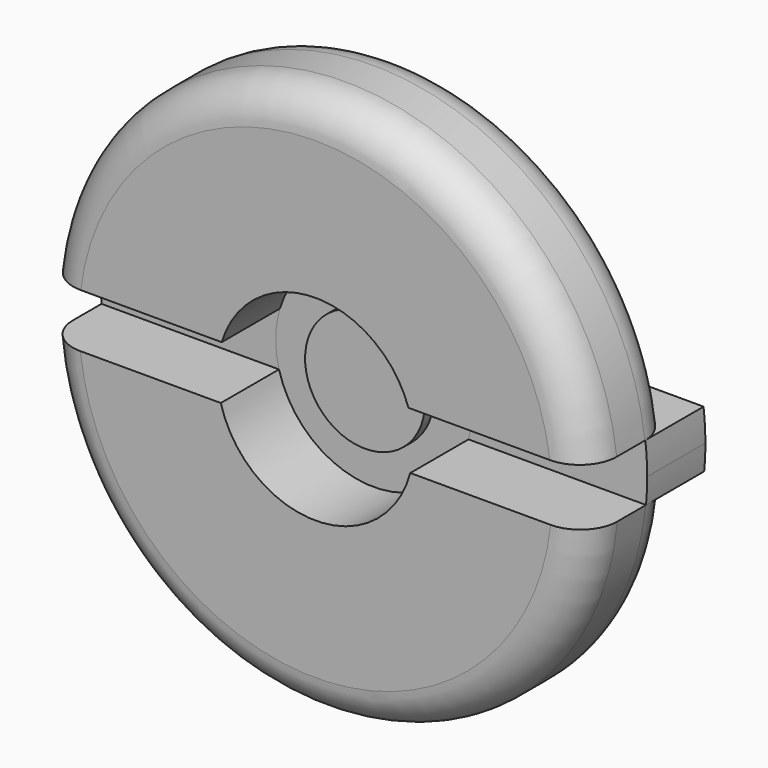
from build123d import *

# Parameters (mm, degrees)
F1_DEPTH = 15
F0_R     = 8.2416015479
F2_DEPTH = 5
F3_DEPTH = 6.5
F4_DEPTH = 5
F5_R     = 5.08
F5_2_R   = 5.08


with BuildPart() as f1:
    # F0 (on Front) → F1 (new body)
    with BuildSketch(Plane.XZ):
        with BuildLine():
            Line((37.4250772246, -3.4860127999), (13.0237893567, -3.4860127999))
            ThreePointArc((13.0237893567, -3.4860127999), (0, -13.4822614739), (-13.0237893567, -3.4860127999))
            Line((-13.0237893567, -3.4860127999), (-37.4250772246, -3.4860127999))
            ThreePointArc((-37.4250772246, -3.4860127999), (0, -37.5870814311), (37.4250772246, -3.4860127999))
        make_face()
    extrude(amount=F1_DEPTH)

    # F5#2
    f5_2_edges = [f1.edges().sort_by_distance(p)[0] for p in [
        (0, -15, -37.587081),
        (0, 0, -37.587081),
    ]]
    fillet(f5_2_edges, radius=F5_2_R)


with BuildPart() as f1b:
    # F0 (on Front) → F1, piece 2 (new body)
    with BuildSketch(Plane.XZ):
        with BuildLine():
            ThreePointArc((-12.9017788597, 3.9134992915), (-0.214800106, 13.4805502619), (12.7705448046, 4.3225640357))
            Line((12.7705448046, 4.3225640357), (37.3377038751, 4.3225640357))
            ThreePointArc((37.3377038751, 4.3225640357), (-0.2057711081, 37.5865181782), (-37.3827930177, 3.9134992915))
            Line((-37.3827930177, 3.9134992915), (-12.9017788597, 3.9134992915))
        make_face()
    extrude(amount=F1_DEPTH)

    # F5
    f5_edges = [f1b.edges().sort_by_distance(p)[0] for p in [
        (-0.205771, -15, 37.586518),
        (-0.205771, 0, 37.586518),
    ]]
    fillet(f5_edges, radius=F5_R)


with BuildPart() as f2:
    # F0 (on Front) → F2 (new body, symmetric)
    with BuildSketch(Plane.XZ):
        with BuildLine():
            ThreePointArc((13.0237893567, -3.4860127999), (13.3671520515, -1.7580160639), (13.4822614739, 0))
            ThreePointArc((13.4822614739, 0), (13.3031424609, 2.1903824129), (12.7705448046, 4.3225640357))
            ThreePointArc((12.7705448046, 4.3225640357), (-0.214800106, 13.4805502619), (-12.9017788597, 3.9134992915))
            ThreePointArc((-12.9017788597, 3.9134992915), (-13.4804290226, 0.2222786887), (-13.0237893567, -3.4860127999))
            ThreePointArc((-13.0237893567, -3.4860127999), (0, -13.4822614739), (13.0237893567, -3.4860127999))
        make_face()
        Circle(F0_R, mode=Mode.SUBTRACT)
    extrude(amount=F2_DEPTH, both=True)

    # F0 (on Front) → F3 (join, symmetric)
    with BuildSketch(Plane.XZ):
        Circle(F0_R)
    extrude(amount=F3_DEPTH, both=True)


with BuildPart() as f4:
    # F0 (on Front) → F4 (new body, symmetric)
    with BuildSketch(Plane.XZ):
        with BuildLine():
            ThreePointArc((-13.0237893567, -3.4860127999), (-13.4804290226, 0.2222786887), (-12.9017788597, 3.9134992915))
            Line((-12.9017788597, 3.9134992915), (-37.3827930177, 3.9134992915))
            ThreePointArc((-37.3827930177, 3.9134992915), (-37.5864677423, 0.2147863209), (-37.4250772246, -3.4860127999))
            Line((-37.4250772246, -3.4860127999), (-13.0237893567, -3.4860127999))
        make_face()
    extrude(amount=F4_DEPTH, both=True)


with BuildPart() as f4b:
    # F0 (on Front) → F4, piece 2 (new body, symmetric)
    with BuildSketch(Plane.XZ):
        with BuildLine():
            ThreePointArc((12.7705448046, 4.3225640357), (13.3031424609, 2.1903824129), (13.4822614739, 0))
            ThreePointArc((13.4822614739, 0), (13.3671520515, -1.7580160639), (13.0237893567, -3.4860127999))
            Line((13.0237893567, -3.4860127999), (37.4250772246, -3.4860127999))
            ThreePointArc((37.4250772246, -3.4860127999), (37.5465585355, -1.7448875755), (37.5870814311, 0))
            ThreePointArc((37.5870814311, 0), (37.5246852519, 2.1648758052), (37.3377038751, 4.3225640357))
            Line((37.3377038751, 4.3225640357), (12.7705448046, 4.3225640357))
        make_face()
    extrude(amount=F4_DEPTH, both=True)


solid = Compound([f1.part, f1b.part, f2.part, f4.part, f4b.part])
